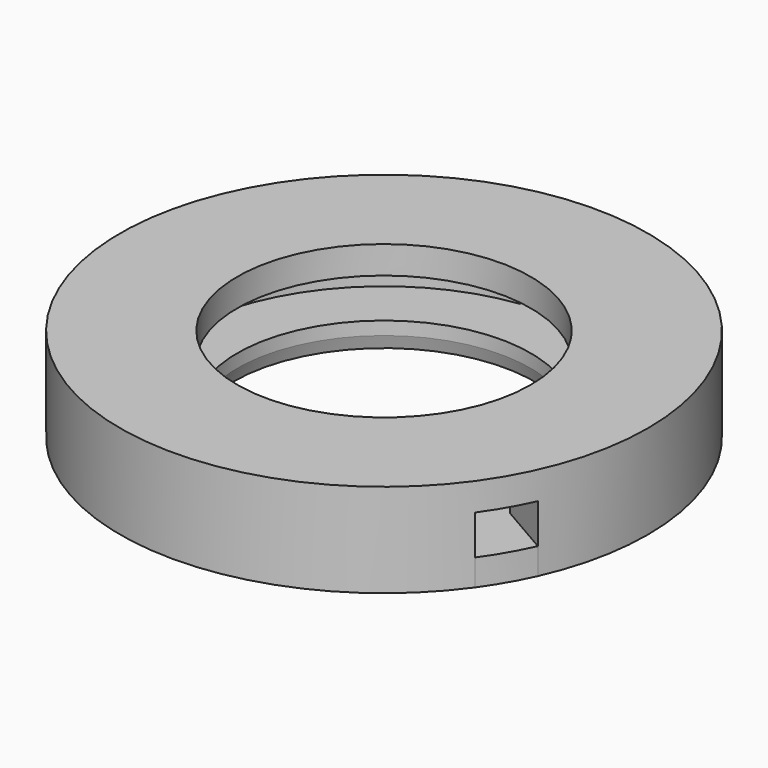
from build123d import *

# Parameters (mm, degrees)
F0_R     = 20
F0_R_2   = 11.1125
F1_DEPTH = 7.1
F2_R     = 11.1125
F3_DEPTH = 5
F4_R     = 11.1125
F5_DEPTH = 2
F6_SIZE2 = 1
F6_SIZE  = 0.3


with BuildPart() as f1:
    # F0 (on Top) → F1 (new body)
    with BuildSketch(Plane.XY):
        Circle(F0_R)
        Circle(F0_R_2, mode=Mode.SUBTRACT)
    extrude(amount=F1_DEPTH)

    # F2 (on Top) → F3 (cut)
    with BuildSketch(Plane.XY):
        with BuildLine():
            Line((-2, 19.899749), (-2, 15.370426))
            ThreePointArc((-2, 15.370426), (-13.423394, 7.75), (-14.31118, -5.953162))
            Line((-14.31118, -5.953162), (-18.233688, -8.217824))
            ThreePointArc((-18.233688, -8.217824), (-17.320508, -10), (-16.233688, -11.681925))
            Line((-16.233688, -11.681925), (-12.31118, -9.417264))
            ThreePointArc((-12.31118, -9.417264), (0, -15.5), (12.31118, -9.417264))
            Line((12.31118, -9.417264), (16.233688, -11.681925))
            ThreePointArc((16.233688, -11.681925), (17.320508, -10), (18.233688, -8.217824))
            Line((18.233688, -8.217824), (14.31118, -5.953162))
            ThreePointArc((14.31118, -5.953162), (13.423394, 7.75), (2, 15.370426))
            Line((2, 15.370426), (2, 19.899749))
            ThreePointArc((2, 19.899749), (0, 20), (-2, 19.899749))
        make_face()
        Circle(F2_R, mode=Mode.SUBTRACT)
    extrude(amount=F3_DEPTH, mode=Mode.SUBTRACT)

    # F4 (on Top) → F5 (join)
    with BuildSketch(Plane.XY):
        with BuildLine():
            Line((-2, 19.899749), (-2, 15.370426))
            ThreePointArc((-2, 15.370426), (-13.423394, 7.75), (-14.31118, -5.953162))
            Line((-14.31118, -5.953162), (-18.233688, -8.217824))
            ThreePointArc((-18.233688, -8.217824), (-17.320508, -10), (-16.233688, -11.681925))
            Line((-16.233688, -11.681925), (-12.31118, -9.417264))
            ThreePointArc((-12.31118, -9.417264), (0, -15.5), (12.31118, -9.417264))
            Line((12.31118, -9.417264), (16.233688, -11.681925))
            ThreePointArc((16.233688, -11.681925), (17.320508, -10), (18.233688, -8.217824))
            Line((18.233688, -8.217824), (14.31118, -5.953162))
            ThreePointArc((14.31118, -5.953162), (13.423394, 7.75), (2, 15.370426))
            Line((2, 15.370426), (2, 19.899749))
            ThreePointArc((2, 19.899749), (0, 20), (-2, 19.899749))
        make_face()
        Circle(F4_R, mode=Mode.SUBTRACT)
    extrude(amount=F5_DEPTH)

    # F6
    f6_edges = [f1.edges().sort_by_distance(p)[0] for p in [
        (-11.1125, 0, 0),
    ]]
    chamfer(f6_edges, length=F6_SIZE, length2=F6_SIZE2)


solid = f1.part
